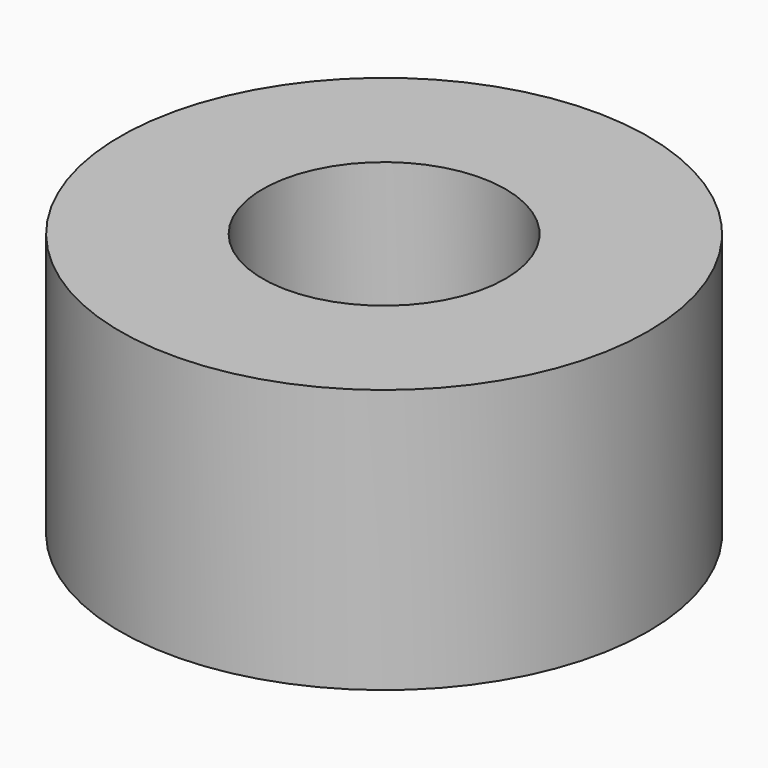
from build123d import *

# Parameters (mm, degrees)
F0_R      = 75.62278
F1_DEPTH  = 75.692
F2_R      = 34.789881
F3_DEPTH  = 148.844
F3_FACE_R = 34.789881
F4_DEPTH  = 287.274


with BuildPart() as f1:
    # F0 (on Top) → F1 (new body)
    with BuildSketch(Plane.XY):
        Circle(F0_R)
    extrude(amount=F1_DEPTH)

    # F2 (on face) → F3 (join)
    with BuildSketch(Plane.XY.offset(75.692)):
        Circle(F2_R)
    extrude(amount=-F3_DEPTH)

    # F3_face (on face) → F4 (cut)
    with BuildSketch(Plane(origin=(0, 0, -73.152), x_dir=(1, 0, 0), z_dir=(0, 0, -1))):
        Circle(F3_FACE_R)
    extrude(amount=-F4_DEPTH, mode=Mode.SUBTRACT)


solid = f1.part
